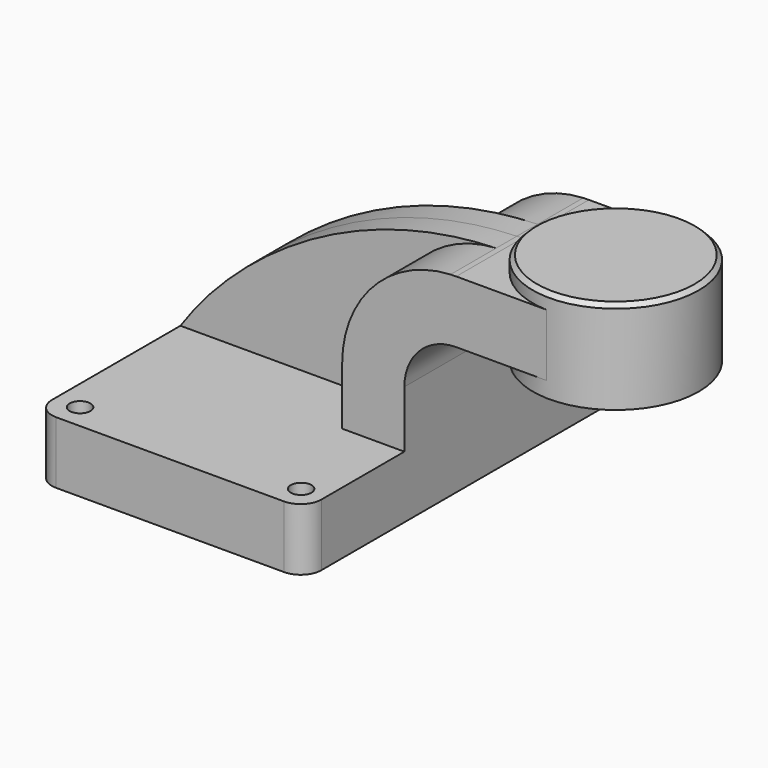
from build123d import *

# Parameters (mm, degrees)
F1_DEPTH = 63.5
F0_W     = 25.3858086348
F0_H     = 19.05
F2_DEPTH = 25.4
F3_DEPTH = 7.9375
F5_R     = 6.35
F7_D     = 6.35
F8_SIZE2 = 1.27
F8_SIZE  = 1.27


with BuildPart() as f1:
    # F0 (on Front) → F1 (new body, symmetric)
    with BuildSketch(Plane.XZ):
        Polygon((-41.275, 9.525), (-41.275, -9.525), (41.275, -9.525), (41.275, 9.525), (22.225, 9.525), align=None)
    extrude(amount=F1_DEPTH, both=True)

    # F0 (on Front) → F2 (join, symmetric)
    with BuildSketch(Plane.XZ):
        with Locations((73.0179043174, 52.4002)):
            Rectangle(F0_W, F0_H)
        with BuildLine():
            Line((22.225, 9.525), (41.275, 9.525))
            Line((41.275, 9.525), (41.275, 27.0002))
            ThreePointArc((41.275, 27.0002), (45.9246798487, 38.2255201513), (57.15, 42.8752))
            Line((57.15, 42.8752), (60.325, 42.8752))
            Line((60.325, 42.8752), (60.325, 61.9252))
            Line((60.325, 61.9252), (57.15, 61.9252))
            add(Edge.make_bspline(
                [(55.4113425633, 61.8818957059), (55.9890331624, 61.9003631029), (56.5685898657, 61.9148171773), (57.15, 61.9252)],
                knots=[110.1382061471, 110.1382061471, 110.1382061471, 110.1382061471, 111.5045361635, 111.5045361635, 111.5045361635, 111.5045361635], degree=3))
            ThreePointArc((55.4113425633, 61.8818957059), (31.8470531758, 51.073349088), (22.225, 27.0002))
            Line((22.225, 27.0002), (22.225, 9.525))
        make_face()
    extrude(amount=F2_DEPTH, both=True)

    # F0 (on Front) → F3 (join, symmetric)
    with BuildSketch(Plane.XZ):
        with BuildLine():
            add(Edge.make_bspline(
                [(-41.275, 9.525), (-25.5970072353, 32.826953112), (8.8444037337, 60.3932612228), (55.4113425633, 61.8818957059)],
                knots=[0, 0, 0, 0, 110.1382061471, 110.1382061471, 110.1382061471, 110.1382061471], degree=3))
            Line((-41.275, 9.525), (22.225, 9.525))
            Line((22.225, 9.525), (22.225, 27.0002))
            ThreePointArc((22.225, 27.0002), (31.8470531758, 51.073349088), (55.4113425633, 61.8818957059))
        make_face()
    extrude(amount=F3_DEPTH, both=True)

    # F0 (on Front) → F4 (revolve)
    with BuildSketch(Plane.XZ):
        Polygon((85.7108086348, 66.675), (85.7108086348, 61.9252), (85.7108086348, 42.8752), (85.7108086348, 38.1), (111.125, 38.1), (111.125, 66.675), align=None)
    revolve(axis=Axis((85.7108086348, 0, 52.3875), (0, 0, 1)))

    # F5
    f5_edges = [f1.edges().sort_by_distance(p)[0] for p in [
        (-41.275, -63.5, 0),
        (41.275, -63.5, 0),
        (41.275, 63.5, 0),
        (-41.275, 63.5, 0),
    ]]
    fillet(f5_edges, radius=F5_R)

    # F7 (through all)
    with Locations(Plane(origin=(0, 0, -9.525), x_dir=(1, 0, 0), z_dir=(0, 0, -1))):
        with Locations((-33.655, 55.88), (34.036, 55.88), (34.417, -56.134), (-33.274, -56.134)):
            Hole(F7_D / 2)

    # F8
    f8_edges = [f1.edges().sort_by_distance(p)[0] for p in [
        (60.296617, 0, 66.675),
    ]]
    chamfer(f8_edges, length=F8_SIZE, length2=F8_SIZE2)


solid = f1.part
